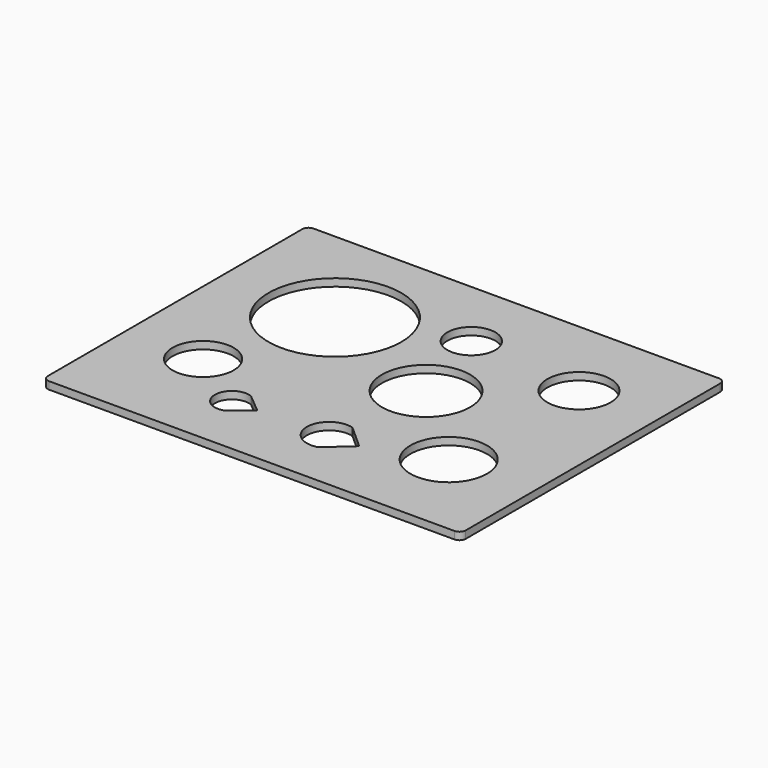
from build123d import *

# Parameters (mm, degrees)
F0_W     = 335
F0_H     = 265
F0_R     = 24.5
F0_R_2   = 30.75
F0_R_3   = 53.25
F0_R_4   = 35.375
F0_R_5   = 25.375
F0_R_6   = 19.25
F1_DEPTH = 6
F2_R     = 5


with BuildPart() as f1:
    # F0 (on Top) → F1 (new body)
    with BuildSketch(Plane.XY):
        Rectangle(F0_W, F0_H)
        with BuildLine():
            ThreePointArc((-51.275, -94.781847), (-70, -82), (-51.275, -69.218153))
            Line((-51.275, -69.218153), (-36, -82))
            Line((-36, -82), (-51.275, -94.781847))
        make_face(mode=Mode.SUBTRACT)
        with Locations((-106, -48.77884)):
            Circle(F0_R, mode=Mode.SUBTRACT)
        with BuildLine():
            ThreePointArc((25, -97.109372), (2.175, -80), (25, -62.890628))
            Line((25, -62.890628), (44.175, -80))
            Line((44.175, -80), (25, -97.109372))
        make_face(mode=Mode.SUBTRACT)
        with Locations((99.25, -59.25)):
            Circle(F0_R_2, mode=Mode.SUBTRACT)
        with Locations((-76.75, 46.75)):
            Circle(F0_R_3, mode=Mode.SUBTRACT)
        with Locations((30, 4.625)):
            Circle(F0_R_4, mode=Mode.SUBTRACT)
        with Locations((104.625, 64.625)):
            Circle(F0_R_5, mode=Mode.SUBTRACT)
        with Locations((10, 75)):
            Circle(F0_R_6, mode=Mode.SUBTRACT)
    extrude(amount=F1_DEPTH)

    # F2
    f2_edges = [f1.edges().sort_by_distance(p)[0] for p in [
        (-167.5, 132.5, 3),
        (167.5, 132.5, 3),
        (167.5, -132.5, 3),
        (-167.5, -132.5, 3),
    ]]
    fillet(f2_edges, radius=F2_R)


solid = f1.part
